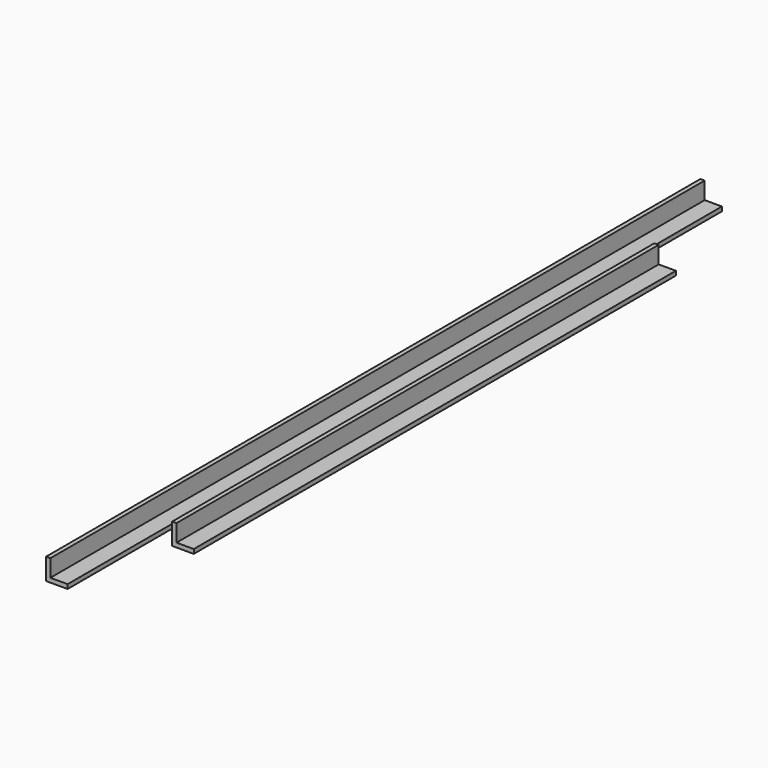
from build123d import *

# Parameters (mm, degrees)
F1_DEPTH = 475
F3_DEPTH = 350


with BuildPart() as f1:
    # F0 (on Front) → F1 (new body, symmetric)
    with BuildSketch(Plane.XZ):
        Polygon((0, 25), (0, 0), (25, 0), (25, 5), (5, 5), (5, 25), align=None)
    extrude(amount=F1_DEPTH, both=True)


with BuildPart() as f3:
    # F2 (on Front) → F3 (new body, symmetric)
    with BuildSketch(Plane.XZ):
        Polygon((46.533303, 25.222328), (46.533303, 0.222328), (71.533303, 0.222328), (71.533303, 5.222328), (51.533303, 5.222328), (51.533303, 25.222328), align=None)
    extrude(amount=F3_DEPTH, both=True)


solid = Compound([f1.part, f3.part])
